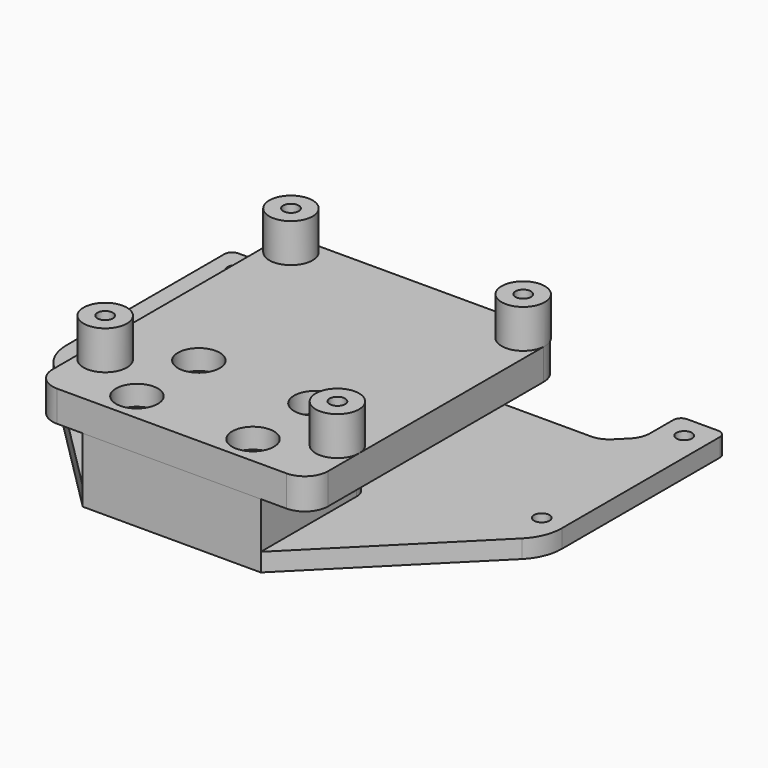
from build123d import *

# Parameters (mm, degrees)
PAD_DEPTH     = 2.35
SKETCH002_W   = 23
SKETCH002_H   = 17.5
PAD001_DEPTH  = 6
SKETCH003_R   = 1
HOLE_DEPTH    = 8.351
SKETCH004_R   = 1
HOLE001_DEPTH = 25
FILLET_R      = 1
FILLET001_R   = 3
FILLET002_R   = 6
FILLET003_R   = 2
SKETCH005_W   = 35.6
SKETCH005_H   = 40.8
SKETCH005_R   = 1.5
PAD002_DEPTH  = 4
FILLET004_R   = 3
SKETCH006_R   = 2.8
PAD003_DEPTH  = 5
SKETCH007_R   = 2.7
POCKET_DEPTH  = 2.6
SKETCH008_R   = 1
HOLE002_DEPTH = 25


with BuildPart() as obj1:
    # Sketch001 → Pad (new body)
    with BuildSketch(Plane.XY):
        Polygon((0, 29), (6, 29), (6, 23), (9, 20), (55, 20), (58, 23), (58, 29), (64, 29), (64, 0), (43.5, -20.5), (20.5, -20.5), (0, 0), align=None)
    extrude(amount=PAD_DEPTH)

    # Sketch002 (on Face14 of Pad) → Pad001 (join)
    with BuildSketch(Plane.XY.offset(2.35)):
        with Locations((32, -11.75)):
            Rectangle(SKETCH002_W, SKETCH002_H)
    extrude(amount=PAD001_DEPTH)

    # Sketch003 (on Face19 of Pad001) → Hole (cut, through all)
    with BuildSketch(Plane.XY.offset(8.35)):
        with Locations((39.5, -6.75)):
            Circle(SKETCH003_R)
        with Locations((39.5, -16.75)):
            Circle(SKETCH003_R)
        with Locations((24.5, -16.75)):
            Circle(SKETCH003_R)
        with Locations((24.5, -6.75)):
            Circle(SKETCH003_R)
    extrude(amount=-HOLE_DEPTH, mode=Mode.SUBTRACT)

    # Sketch004 (on Face5 of Hole) → Hole001 (cut)
    with BuildSketch(Plane.XY.offset(2.35)):
        with Locations((3, 26)):
            Circle(SKETCH004_R)
        with Locations((3, 3)):
            Circle(SKETCH004_R)
        with Locations((61, 3)):
            Circle(SKETCH004_R)
        with Locations((61, 26)):
            Circle(SKETCH004_R)
    extrude(amount=-HOLE001_DEPTH, mode=Mode.SUBTRACT)

    # Fillet
    fillet_edges = [obj1.edges().sort_by_distance(p)[0] for p in [
        (6, 29, 1.175),
        (0, 29, 1.175),
        (58, 29, 1.175),
        (64, 29, 1.175),
    ]]
    fillet(fillet_edges, radius=FILLET_R)

    # Fillet001
    fillet001_edges = [obj1.edges().sort_by_distance(p)[0] for p in [
        (6, 23, 1.175),
        (9, 20, 1.175),
        (55, 20, 1.175),
        (58, 23, 1.175),
    ]]
    fillet(fillet001_edges, radius=FILLET001_R)

    # Fillet002
    fillet002_edges = [obj1.edges().sort_by_distance(p)[0] for p in [
        (0, 0, 1.175),
        (64, 0, 1.175),
    ]]
    fillet(fillet002_edges, radius=FILLET002_R)

    # Fillet003
    fillet003_edges = [obj1.edges().sort_by_distance(p)[0] for p in [
        (20.5, -3, 5.35),
        (43.5, -3, 5.35),
    ]]
    fillet(fillet003_edges, radius=FILLET003_R)


with BuildPart() as body_camside:
    # Sketch005 (on ReferenceFillet) → Pad002 (new body)
    with BuildSketch(Plane.XY.offset(8.35)):
        with Locations((32, -0.1)):
            Rectangle(SKETCH005_W, SKETCH005_H)
        with Locations((24.5, -6.75)):
            Circle(SKETCH005_R, mode=Mode.SUBTRACT)
        with Locations((39.5, -6.75)):
            Circle(SKETCH005_R, mode=Mode.SUBTRACT)
        with Locations((39.5, -16.75)):
            Circle(SKETCH005_R, mode=Mode.SUBTRACT)
        with Locations((24.5, -16.75)):
            Circle(SKETCH005_R, mode=Mode.SUBTRACT)
    extrude(amount=PAD002_DEPTH)

    # Fillet004
    fillet004_edges = [body_camside.edges().sort_by_distance(p)[0] for p in [
        (14.2, -20.5, 10.35),
        (49.8, -20.5, 10.35),
        (49.8, 20.3, 10.35),
        (14.2, 20.3, 10.35),
    ]]
    fillet(fillet004_edges, radius=FILLET004_R)

    # Sketch006 (on Face5 of Fillet004) → Pad003 (join)
    with BuildSketch(Plane.XY.offset(12.35)):
        with Locations((17, 17.5)):
            Circle(SKETCH006_R)
        with Locations((47.006087, 17.500883)):
            Circle(SKETCH006_R)
        with Locations((47, -12.5)):
            Circle(SKETCH006_R)
        with Locations((17, -12.5)):
            Circle(SKETCH006_R)
    extrude(amount=PAD003_DEPTH)

    # Sketch007 (on Face5 of Pad003) → Pocket (cut)
    with BuildSketch(Plane.XY.offset(12.35)):
        with Locations((24.5, -6.75)):
            Circle(SKETCH007_R)
        with Locations((39.5, -6.75)):
            Circle(SKETCH007_R)
        with Locations((39.5, -16.75)):
            Circle(SKETCH007_R)
        with Locations((24.5, -16.75)):
            Circle(SKETCH007_R)
    extrude(amount=-POCKET_DEPTH, mode=Mode.SUBTRACT)

    # Sketch008 (on Face29 of Pocket) → Hole002 (cut)
    with BuildSketch(Plane.XY.offset(17.35)):
        with Locations((17, 17.5)):
            Circle(SKETCH008_R)
        with Locations((47.006087, 17.500883)):
            Circle(SKETCH008_R)
        with Locations((47, -12.5)):
            Circle(SKETCH008_R)
        with Locations((17, -12.5)):
            Circle(SKETCH008_R)
    extrude(amount=-HOLE002_DEPTH, mode=Mode.SUBTRACT)


solid = Compound([obj1.part, body_camside.part])
